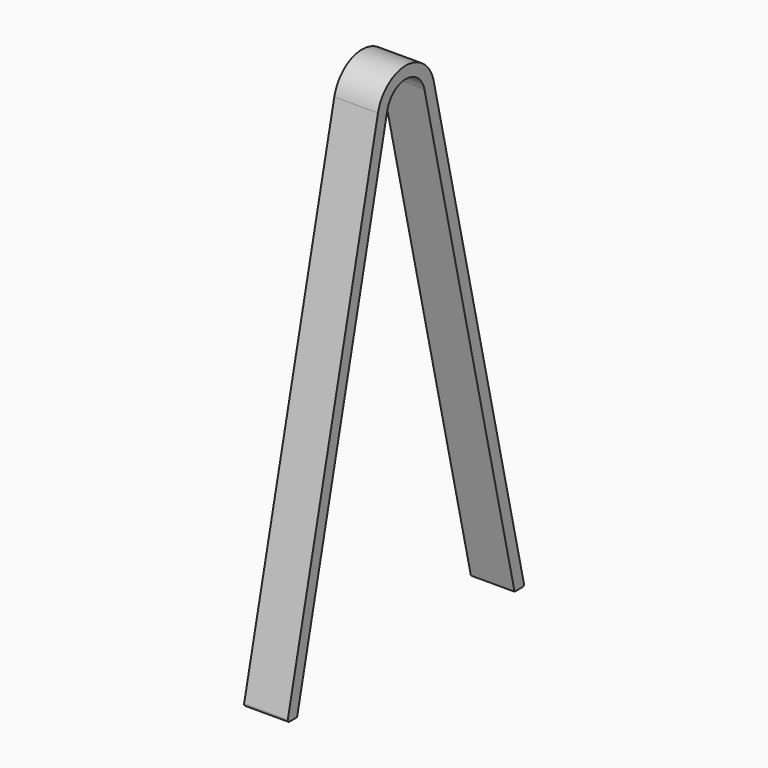
from build123d import *

# Parameters (mm, degrees)
F1_DEPTH = 69.85
F2_R     = 3.175


with BuildPart() as f1:
    # F0 (on Right) → F1 (new body)
    with BuildSketch(Plane.YZ):
        with BuildLine():
            Line((-29.314961, 785.091735), (-210.567669, 0))
            Line((-210.567669, 0), (-191.016576, 0))
            Line((-191.016576, 0), (-10.753211, 780.806417))
            ThreePointArc((-10.753211, 780.806417), (26.370288, 810.335782), (63.493788, 780.806417))
            Line((63.493788, 780.806417), (243.757153, 0))
            Line((243.757153, 0), (263.308246, 0))
            Line((263.308246, 0), (82.055538, 785.091735))
            ThreePointArc((82.055538, 785.091735), (26.370288, 829.385782), (-29.314961, 785.091735))
        make_face()
    extrude(amount=F1_DEPTH)

    # F2
    f2_edges = [f1.edges().sort_by_distance(p)[0] for p in [
        (34.925, -210.567669, 0),
        (34.925, 263.308246, 0),
    ]]
    fillet(f2_edges, radius=F2_R)


solid = f1.part
